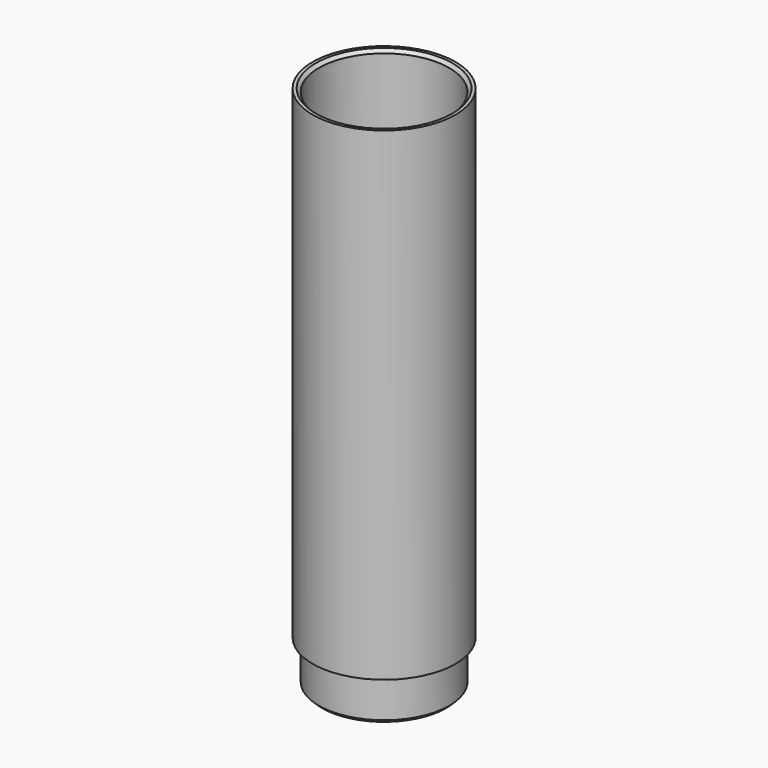
from build123d import *

# Parameters (mm, degrees)
F1_R     = 17
F1_R_2   = 15.5
F2_DEPTH = 115
F3_SIZE  = 0.75
F4_R     = 17
F5_DEPTH = 2
F6_R     = 15.5
F7_DEPTH = 10
F8_SIZE  = 0.75


with BuildPart() as f2:
    # F1 (on offset) → F2 (new body)
    with BuildSketch(Plane.XY.offset(222)):
        Circle(F1_R)
        Circle(F1_R_2, mode=Mode.SUBTRACT)
    extrude(amount=F2_DEPTH)

    # F3
    f3_edges = [f2.edges().sort_by_distance(p)[0] for p in [
        (-15.5, 0, 337),
    ]]
    chamfer(f3_edges, length=F3_SIZE)

    # F4 (on offset) → F5 (join)
    with BuildSketch(Plane.XY.offset(222)):
        Circle(F4_R)
    extrude(amount=F5_DEPTH)

    # F6 (on face) → F7 (join)
    with BuildSketch(Plane(origin=(0, 0, 222), x_dir=(1, 0, 0), z_dir=(0, 0, -1))):
        Circle(F6_R)
    extrude(amount=F7_DEPTH)

    # F8
    f8_edges = [f2.edges().sort_by_distance(p)[0] for p in [
        (-15.5, 0, 212),
    ]]
    chamfer(f8_edges, length=F8_SIZE)


solid = f2.part
